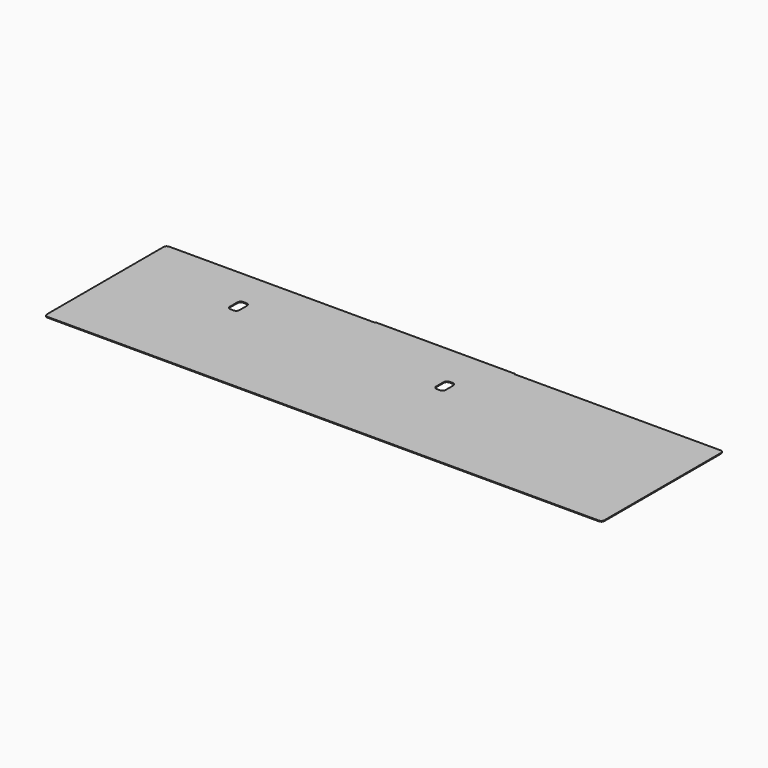
from build123d import *

# Parameters (mm, degrees)
F0_W     = 1117.6
F0_H     = 304.8
F1_DEPTH = 1.5875
F4_DEPTH = 1.5875
F5_W     = 279.4
F5_H     = 50.8
F6_DEPTH = 1.5875
F7_W     = 7.6921805739
F7_H     = 21.2329626083
F7_W_2   = 8.0148763955
F7_H_2   = 21.2832065299
F8_DEPTH = 1.5875
F9_R     = 6.35
F10_R    = 6.35


with BuildPart() as f1:
    # F0 (on Top) → F1 (new body)
    with BuildSketch(Plane.XY):
        Rectangle(F0_W, F0_H)
    extrude(amount=F1_DEPTH)

    # F3 (on face) → F4 (cut, through all)
    with BuildSketch(Plane.XY.offset(1.5875)):
        with BuildLine():
            ThreePointArc((-332.2286445189, 71.9461765826), (-334.0885164583, 76.4363046431), (-338.5786445189, 78.2961765826))
            Line((-338.5786445189, 78.2961765826), (-344.9286445189, 78.2961765826))
            ThreePointArc((-344.9286445189, 78.2961765826), (-349.4187725794, 76.4363046431), (-351.2786445189, 71.9461765826))
            Line((-351.2786445189, 71.9461765826), (-351.2786445189, 52.8961765826))
            ThreePointArc((-351.2786445189, 52.8961765826), (-349.4187725794, 48.406048522), (-344.9286445189, 46.5461765826))
            Line((-344.9286445189, 46.5461765826), (-338.5786445189, 46.5461765826))
            ThreePointArc((-338.5786445189, 46.5461765826), (-334.0885164583, 48.406048522), (-332.2286445189, 52.8961765826))
            Line((-332.2286445189, 52.8961765826), (-332.2286445189, 71.9461765826))
        make_face()
        with BuildLine():
            ThreePointArc((88.8895047712, 62.5250180006), (87.0296328318, 67.0151460611), (82.5395047712, 68.8750180006))
            Line((82.5395047712, 68.8750180006), (76.1895047712, 68.8750180006))
            ThreePointArc((76.1895047712, 68.8750180006), (71.6993767107, 67.0151460611), (69.8395047712, 62.5250180006))
            Line((69.8395047712, 62.5250180006), (69.8395047712, 43.4750180006))
            ThreePointArc((69.8395047712, 43.4750180006), (71.6993767107, 38.9848899401), (76.1895047712, 37.1250180006))
            Line((76.1895047712, 37.1250180006), (82.5395047712, 37.1250180006))
            ThreePointArc((82.5395047712, 37.1250180006), (87.0296328318, 38.9848899401), (88.8895047712, 43.4750180006))
            Line((88.8895047712, 43.4750180006), (88.8895047712, 62.5250180006))
        make_face()
    extrude(amount=-F4_DEPTH, mode=Mode.SUBTRACT)

    # F9
    f9_edges = [f1.edges().sort_by_distance(p)[0] for p in [
        (-558.8, 152.4, 0.79375),
        (-558.8, -152.4, 0.79375),
        (558.8, -152.4, 0.79375),
        (558.8, 152.4, 0.79375),
    ]]
    fillet(f9_edges, radius=F9_R)


with BuildPart() as f6:
    # F5 (on face) → F6 (new body)
    with BuildSketch(Plane(origin=(0, 152.4, 0), x_dir=(-1, 0, 0), z_dir=(0, 1, 0))):
        with Locations((0, -23.8125)):
            Rectangle(F5_W, F5_H)
    extrude(amount=F6_DEPTH)

    # F7 (on face) → F8 (cut, through all)
    with BuildSketch(Plane(origin=(0, 153.9875, 0), x_dir=(-1, 0, 0), z_dir=(0, 1, 0))):
        with Locations((-107.8125946224, -26.140011847)):
            Rectangle(F7_W, F7_H)
        with Locations((50.5657698959, -26.4909188263)):
            Rectangle(F7_W_2, F7_H_2)
        Polygon((15.6161780773, -16.5343257309), (11.345320064, -21.8221128576), (20.6704313489, -21.8221128576), (20.6704313489, -37.2552846216), (27.5760559918, -37.2552846216), (27.5760559918, -21.8221128576), (34.8457988905, -21.8221128576), (39.1166569037, -16.5343257309), align=None)
        with BuildLine():
            ThreePointArc((72.0678533702, -31.3631950064), (68.0938128502, -26.5456644123), (71.7942922101, -21.5149535692))
            Line((71.7942922101, -21.5149535692), (83.8493555784, -21.5149535692))
            Line((83.8493555784, -21.5149535692), (88.0654709206, -16.2949438283))
            Line((88.0654709206, -16.2949438283), (69.8876163302, -16.2949438283))
            ThreePointArc((69.8876163302, -16.2949438283), (61.4146525621, -26.2823715543), (69.2063038489, -36.8099542694))
            Line((69.2063038489, -36.8099542694), (84.1651437122, -36.8099542694))
            Line((84.1651437122, -36.8099542694), (88.5644008848, -31.3631950064))
            Line((88.5644008848, -31.3631950064), (72.0678533702, -31.3631950064))
        make_face()
        with BuildLine():
            Line((100.4359583746, -21.9276892464), (116.2991094271, -21.9276892464))
            Line((116.2991094271, -21.9276892464), (120.5284183432, -16.6913444247))
            Line((120.5284183432, -16.6913444247), (97.9962427114, -16.6913444247))
            ThreePointArc((97.9962427114, -16.6913444247), (93.4500087631, -22.8189209197), (98.071386208, -28.8900252118))
            Line((98.071386208, -28.8900252118), (113.6753311597, -28.8900252118))
            ThreePointArc((113.6753311597, -28.8900252118), (114.6787088324, -30.4204284293), (113.8000534429, -32.0256902361))
            Line((113.8000534429, -32.0256902361), (96.8292273228, -32.0256902361))
            Line((96.8292273228, -32.0256902361), (92.894671083, -36.897099159))
            Line((92.894671083, -36.897099159), (116.5341868674, -36.897099159))
            ThreePointArc((116.5341868674, -36.897099159), (120.81294988, -30.948320822), (117.1234983419, -24.6171500007))
            Line((117.1234983419, -24.6171500007), (100.5890439474, -24.6171500007))
            ThreePointArc((100.5890439474, -24.6171500007), (99.817425927, -23.3119836849), (100.4359583746, -21.9276892464))
        make_face()
        Polygon((-118.3852031827, -15.8932730556), (-123.4309002757, -15.8932730556), (-122.0433339477, -24.19343777), (-119.7727695107, -24.19343777), align=None)
        with BuildLine():
            Line((-77.6159058593, -21.2487914891), (-76.2207364111, -19.5215903332))
            Line((-76.2207364111, -19.5215903332), (-73.808219203, -16.5349262289))
            add(Edge.make_bspline(
                [(-73.808219203, -16.5349262289), (-86.6994594435, -12.0513294505), (-93.9620299727, -21.0422948339), (-101.2246005019, -30.0332602173), (-89.6402036123, -36.1347116218)],
                knots=[1.1270794679, 1.1270794679, 1.1270794679, 2.6077828375, 2.6077828375, 4.0884862072, 4.0884862072, 4.0884862072], degree=2, weights=[1, 0.7382313762, 1, 0.7382313762, 1]))
            Line((-89.6402036123, -36.1347116218), (-85.8797714716, -31.4793468212))
            add(Edge.make_bspline(
                [(-77.6159058593, -21.2487914891), (-84.343637189, -19.5252853377), (-87.8830677218, -23.9070530974), (-91.4224982546, -28.2888208571), (-85.8797714716, -31.4793468212)],
                knots=[1.221854975, 1.221854975, 1.221854975, 2.6244589809, 2.6244589809, 4.0270629868, 4.0270629868, 4.0270629868], degree=2, weights=[1, 0.7640027659, 1, 0.7640027659, 1]))
        make_face()
        with BuildLine():
            add(Edge.make_bspline(
                [(-83.4135049225, -32.4671447272), (-76.6856765422, -34.1912158775), (-73.1457519624, -29.8093498385), (-69.6058273825, -25.4274837995), (-75.1488372082, -22.2367949093)],
                knots=[4.3633469407, 4.3633469407, 4.3633469407, 5.7660012905, 5.7660012905, 7.1686556404, 7.1686556404, 7.1686556404], degree=2, weights=[1, 0.7639865244, 1, 0.7639865244, 1]))
            Line((-83.4135049225, -32.4671447272), (-87.2211452444, -37.1809526261))
            add(Edge.make_bspline(
                [(-87.2211452444, -37.1809526261), (-74.3298865837, -41.665175297), (-67.0667916039, -32.6741104521), (-59.8036966241, -23.6830456072), (-71.3884050675, -17.5814301087)],
                knots=[4.2686185518, 4.2686185518, 4.2686185518, 5.7493487063, 5.7493487063, 7.2300788608, 7.2300788608, 7.2300788608], degree=2, weights=[1, 0.7382223424, 1, 0.7382223424, 1]))
            Line((-71.3884050675, -17.5814301087), (-74.2448342385, -21.1176512983))
            Line((-74.2448342385, -21.1176512983), (-75.1488372082, -22.2367949093))
        make_face()
        with BuildLine():
            add(Edge.make_bspline(
                [(-12.8610140376, -31.6513067751), (-6.1332827079, -33.3748129265), (-2.5938521751, -28.9930451668), (0.9455783577, -24.6112774071), (-4.5971484253, -21.420751443)],
                knots=[4.3634476286, 4.3634476286, 4.3634476286, 5.7660516345, 5.7660516345, 7.1686556404, 7.1686556404, 7.1686556404], degree=2, weights=[1, 0.7640027659, 1, 0.7640027659, 1]))
            Line((-12.8610140376, -31.6513067751), (-16.6687006939, -36.3651720353))
            add(Edge.make_bspline(
                [(-16.6687006939, -36.3651720353), (-3.7774604534, -40.8487688137), (3.4851100758, -31.8578034303), (10.747680605, -22.8668380469), (-0.8367162846, -16.7653866424)],
                knots=[4.2686721215, 4.2686721215, 4.2686721215, 5.7493754911, 5.7493754911, 7.2300788608, 7.2300788608, 7.2300788608], degree=2, weights=[1, 0.7382313762, 1, 0.7382313762, 1]))
            Line((-0.8367162846, -16.7653866424), (-4.5971484253, -21.420751443))
        make_face()
        with BuildLine():
            add(Edge.make_bspline(
                [(-7.0642170764, -20.4327480228), (-13.7919484061, -18.7092418714), (-17.3313789389, -23.0910096311), (-20.8708094718, -27.4727773908), (-15.3280826887, -30.6633033549)],
                knots=[1.221854975, 1.221854975, 1.221854975, 2.6244589809, 2.6244589809, 4.0270629868, 4.0270629868, 4.0270629868], degree=2, weights=[1, 0.7640027659, 1, 0.7640027659, 1]))
            Line((-7.0642170764, -20.4327480228), (-3.2565304201, -15.7188827626))
            add(Edge.make_bspline(
                [(-3.2565304201, -15.7188827626), (-16.1477706606, -11.2352859842), (-23.4103411899, -20.2262513676), (-30.6729117191, -29.217216751), (-19.0885148294, -35.3186681555)],
                knots=[1.1270794679, 1.1270794679, 1.1270794679, 2.6077828375, 2.6077828375, 4.0884862072, 4.0884862072, 4.0884862072], degree=2, weights=[1, 0.7382313762, 1, 0.7382313762, 1]))
            Line((-19.0885148294, -35.3186681555), (-15.3280826887, -30.6633033549))
        make_face()
        Polygon((-43.8248337577, -24.4223866612), (-58.0655261874, -24.4223866612), (-58.0655261874, -37.0531752706), (-54.0275193653, -37.0531752706), (-50.4478785142, -32.6216276735), (-52.9023818672, -32.6216276735), (-52.9023818672, -29.0788020939), (-47.5861145603, -29.0788020939), align=None)
        with BuildLine():
            Line((-39.0047058463, -29.0788020939), (-39.0047058463, -32.6216276735))
            ThreePointArc((-39.0047058463, -32.6216276735), (-37.8005066226, -30.8502148837), (-39.0047058463, -29.0788020939))
        make_face()
        with BuildLine():
            ThreePointArc((-39.0047058463, -29.0788020939), (-37.8005066226, -30.8502148837), (-39.0047058463, -32.6216276735))
            Line((-39.0047058463, -32.6216276735), (-47.1827371071, -32.6216276735))
            Line((-47.1827371071, -32.6216276735), (-50.7623779582, -37.0531752706))
            Line((-50.7623779582, -37.0531752706), (-38.9020442963, -37.0531752706))
            Line((-38.9020442963, -37.0531752706), (-35.4579761624, -37.0531752706))
            ThreePointArc((-35.4579761624, -37.0531752706), (-31.0376459329, -31.8538295105), (-35.4579761624, -26.6544837505))
            ThreePointArc((-35.4579761624, -26.6544837505), (-31.486812653, -21.6863900423), (-35.4579761624, -16.7182963341))
            Line((-35.4579761624, -16.7182963341), (-53.9826392531, -16.7182963341))
            Line((-53.9826392531, -16.7182963341), (-57.8544649968, -21.5120380744))
            Line((-57.8544649968, -21.5120380744), (-38.9020442963, -21.5120380744))
            ThreePointArc((-38.9020442963, -21.5120380744), (-37.687207755, -22.9672123678), (-38.9020442963, -24.4223866612))
            Line((-38.9020442963, -24.4223866612), (-40.5596923506, -24.4223866612))
            Line((-40.5596923506, -24.4223866612), (-44.3209731532, -29.0788020939))
            Line((-44.3209731532, -29.0788020939), (-39.0047058463, -29.0788020939))
        make_face()
    extrude(amount=-F8_DEPTH, mode=Mode.SUBTRACT)

    # F10
    f10_edges = [f6.edges().sort_by_distance(p)[0] for p in [
        (-139.7, 153.19375, -49.2125),
        (139.7, 153.19375, -49.2125),
    ]]
    fillet(f10_edges, radius=F10_R)


solid = Compound([f1.part, f6.part])
